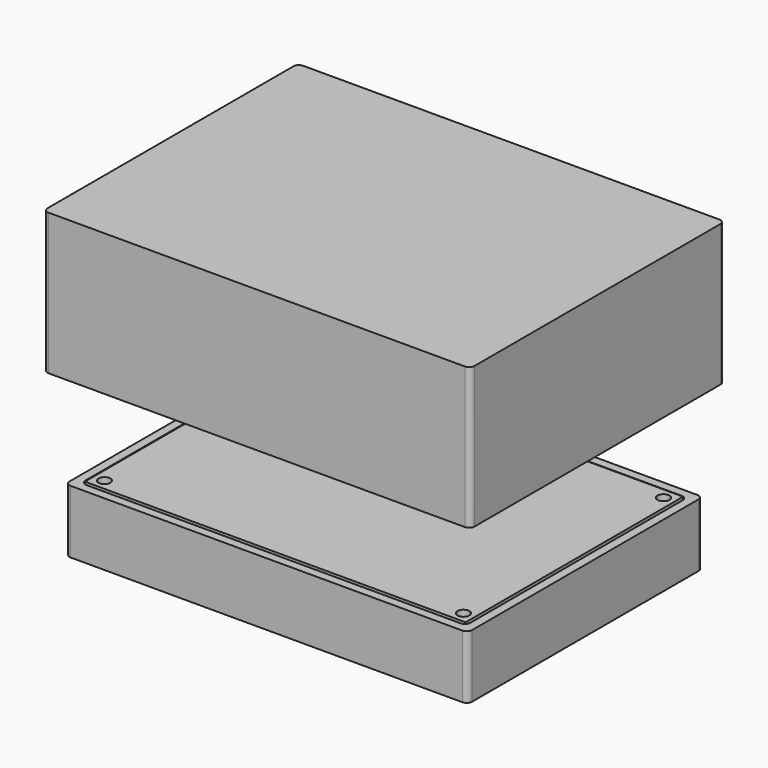
from build123d import *

# Parameters (mm, degrees)
SKETCH_W        = 70
SKETCH_H        = 50
PAD_DEPTH       = 1.6
SKETCH001_R     = 1.1
POCKET_DEPTH    = 1.6
SKETCH002_W     = 74
SKETCH002_H     = 54
PAD001_DEPTH    = 2
SKETCH003_W     = 74
SKETCH003_H     = 54
PAD002_DEPTH    = 9.6
SKETCH004_W     = 70.8
SKETCH004_H     = 50.8
POCKET001_DEPTH = 10.6
PAD003_DEPTH    = 9.2
SKETCH006_R     = 0.75
POCKET002_DEPTH = 8
FILLET_R        = 1
FILLET001_R     = 1
SKETCH008_W     = 78.5
SKETCH008_H     = 58.5
PAD004_DEPTH    = 26
SKETCH007_W     = 74.4
SKETCH007_H     = 54.4
POCKET003_DEPTH = 24.8
FILLET002_R     = 1


with BuildPart() as pcb:
    # Sketch → Pad (new body)
    with BuildSketch(Plane.XY):
        Rectangle(SKETCH_W, SKETCH_H)
    extrude(amount=PAD_DEPTH)

    # Sketch001 (on Face6 of Pad) → Pocket (cut)
    with BuildSketch(Plane.XY.offset(1.6)):
        with Locations((-33, 23)):
            Circle(SKETCH001_R)
        with Locations((-33, -23)):
            Circle(SKETCH001_R)
    pocket = extrude(amount=-POCKET_DEPTH, mode=Mode.SUBTRACT)

    # Mirrored: Pocket across Sketch001 V_Axis
    add(pocket.mirror(Plane(origin=(0, 0, 1.6), x_dir=(0, 0, 1), z_dir=(1, 0, 0))), mode=Mode.SUBTRACT)


with BuildPart() as pcb_1:
    # Body placement: moved
    add(pcb.part.moved(Location((0, 0, 10.2))))


with BuildPart() as base:
    # Sketch002 → Pad001 (new body)
    with BuildSketch(Plane.XY):
        Rectangle(SKETCH002_W, SKETCH002_H)
    extrude(amount=PAD001_DEPTH)

    # Sketch003 (on Face6 of Pad001) → Pad002 (join)
    with BuildSketch(Plane.XY.offset(2)):
        Rectangle(SKETCH003_W, SKETCH003_H)
    extrude(amount=PAD002_DEPTH)

    # Sketch004 (on Face9 of Pad002) → Pocket001 (cut)
    with BuildSketch(Plane.XY.offset(11.6)):
        Rectangle(SKETCH004_W, SKETCH004_H)
    extrude(amount=-POCKET001_DEPTH, mode=Mode.SUBTRACT)

    # Sketch005 (on Face15 of Pocket001) → Pad003 (join)
    with BuildSketch(Plane.XY.offset(1)):
        with BuildLine():
            Line((-31, 23), (-31, 25.4))
            Line((-31, 25.4), (-35.4, 25.4))
            Line((-35.4, 25.4), (-35.4, 21))
            Line((-35.4, 21), (-33, 21))
            ThreePointArc((-33, 21), (-31.585786, 21.585786), (-31, 23))
        make_face()
        with BuildLine():
            ThreePointArc((-31, -23), (-31.585786, -21.585786), (-33, -21))
            Line((-35.4, -21), (-33, -21))
            Line((-35.4, -21), (-35.4, -25.4))
            Line((-35.4, -25.4), (-31, -25.4))
            Line((-31, -25.4), (-31, -23))
        make_face()
    pad003 = extrude(amount=PAD003_DEPTH)

    # Mirrored001: Pad003 across Sketch005 V_Axis
    add(pad003.mirror(Plane(origin=(0, 0, 1), x_dir=(0, 0, 1), z_dir=(1, 0, 0))))

    # Sketch006 (on Face15 of Mirrored001) → Pocket002 (cut)
    with BuildSketch(Plane.XY.offset(10.2)):
        with Locations((-33, 23)):
            Circle(SKETCH006_R)
        with Locations((-33, -23)):
            Circle(SKETCH006_R)
    pocket002 = extrude(amount=-POCKET002_DEPTH, mode=Mode.SUBTRACT)

    # Mirrored002: Pocket002 across Sketch006 V_Axis
    add(pocket002.mirror(Plane(origin=(0, 0, 10.2), x_dir=(0, 0, 1), z_dir=(1, 0, 0))), mode=Mode.SUBTRACT)

    # Fillet
    fillet_edges = [base.edges().sort_by_distance(p)[0] for p in [
        (-37, 27, 6.8),
        (-37, 27, 1),
        (37, 27, 6.8),
        (37, 27, 1),
        (37, -27, 6.8),
        (37, -27, 1),
        (-37, -27, 6.8),
        (-37, -27, 1),
    ]]
    fillet(fillet_edges, radius=FILLET_R)

    # Fillet001
    fillet001_edges = [base.edges().sort_by_distance(p)[0] for p in [
        (-35.4, 25.4, 10.9),
        (-35.4, -25.4, 10.9),
        (35.4, 25.4, 10.9),
        (35.4, -25.4, 10.9),
    ]]
    fillet(fillet001_edges, radius=FILLET001_R)


with BuildPart() as top:
    # Sketch008 → Pad004 (new body)
    with BuildSketch(Plane.XY):
        Rectangle(SKETCH008_W, SKETCH008_H)
    extrude(amount=PAD004_DEPTH)

    # Sketch007 → Pocket003 (cut)
    with BuildSketch(Plane.XY):
        Rectangle(SKETCH007_W, SKETCH007_H)
    extrude(amount=POCKET003_DEPTH, mode=Mode.SUBTRACT)

    # Fillet002
    fillet002_edges = [top.edges().sort_by_distance(p)[0] for p in [
        (-39.25, -29.25, 13),
        (-39.25, 29.25, 13),
        (39.25, -29.25, 13),
        (39.25, 29.25, 13),
    ]]
    fillet(fillet002_edges, radius=FILLET002_R)


with BuildPart() as top_1:
    # Body002 placement: moved
    add(top.part.moved(Location((0, 0, 30))))


solid = Compound([pcb_1.part, base.part, top_1.part])
